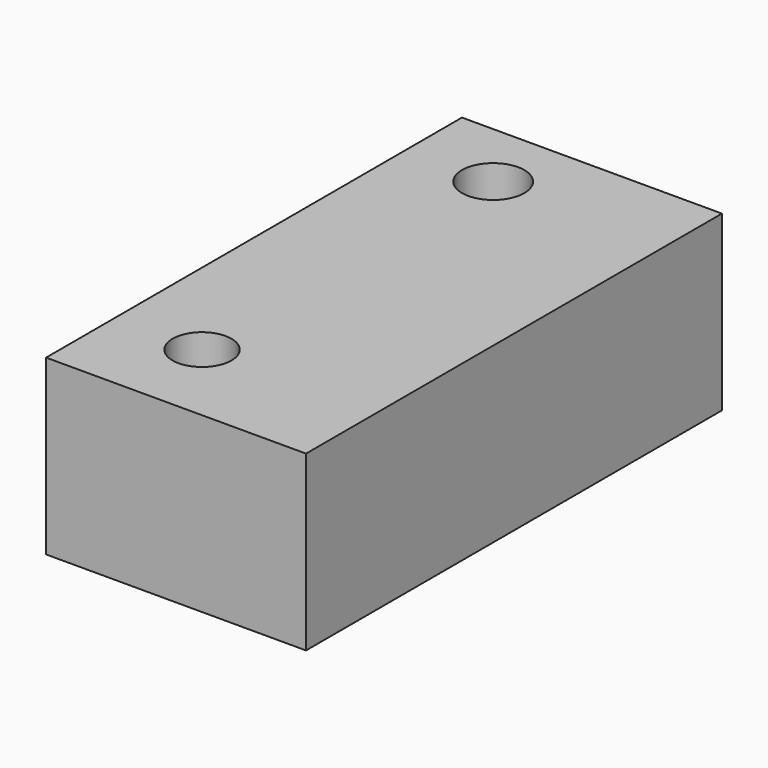
from build123d import *

# Parameters (mm, degrees)
CYLINDER002_R     = 1.8
CYLINDER002_DEPTH = 20
CYLINDER001_R     = 2.3
CYLINDER001_DEPTH = 10
CYLINDER_R        = 1.7
CYLINDER_DEPTH    = 10
BOX_W             = 15
BOX_H             = 30
BOX_DEPTH         = 10


with BuildPart() as m3_clear:
    # Cylinder002 → Cylinder002 (new body)
    with BuildSketch(Plane(origin=(0, 21, -4), x_dir=(1, 0, 0), z_dir=(0, 0, 1))):
        Circle(CYLINDER002_R)
    extrude(amount=CYLINDER002_DEPTH)


with BuildPart() as cylinder001:
    # Cylinder001 → Cylinder001 (new body)
    with BuildSketch(Plane.XY):
        Circle(CYLINDER001_R)
    extrude(amount=CYLINDER001_DEPTH)


with BuildPart() as fusion001:
    # Cylinder → Cylinder (new body)
    with BuildSketch(Plane.XY.offset(7)):
        Circle(CYLINDER_R)
    extrude(amount=CYLINDER_DEPTH)

    # Fusion: union Cylinder001
    add(cylinder001.part)


with BuildPart() as fusion001_1:
    # Fusion placement: moved
    add(fusion001.part.moved(Location((0, 0, -6))))

    # Fusion001: union M3-clear
    add(m3_clear.part)


with BuildPart() as cut:
    # Box → Box (new body)
    with BuildSketch(Plane(origin=(-5, -5, 0), x_dir=(1, 0, 0), z_dir=(0, 0, 1))):
        with Locations((7.5, 15)):
            Rectangle(BOX_W, BOX_H)
    extrude(amount=BOX_DEPTH)

    # Cut: cut Fusion001
    add(fusion001_1.part, mode=Mode.SUBTRACT)


solid = cut.part
